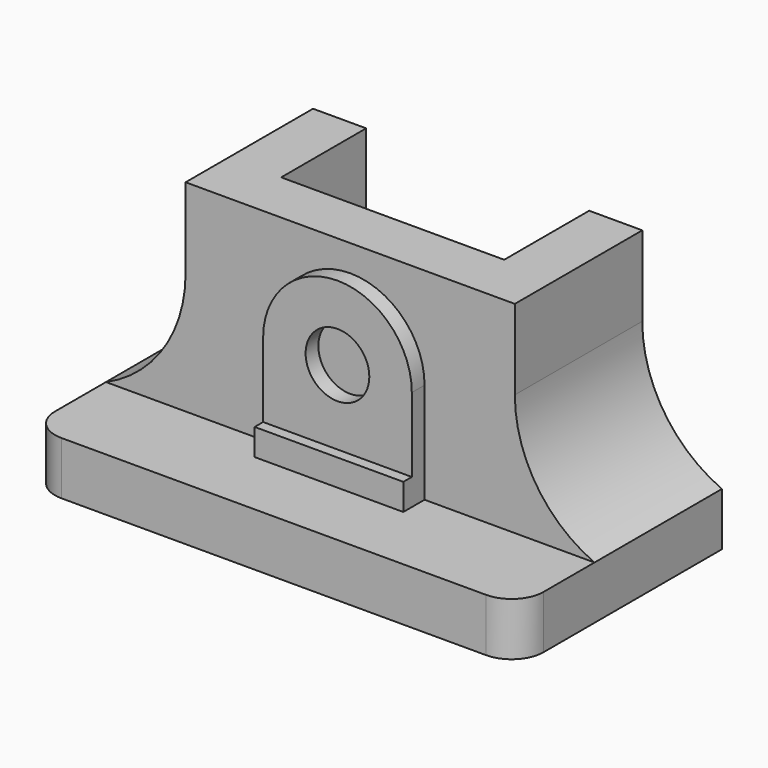
from build123d import *

# Parameters (mm, degrees)
F1_DEPTH = 48
F0_W     = 92
F0_H     = 18
F2_DEPTH = 10
F4_DEPTH = 42.2
F5_R     = 6
F6_DEPTH = 3
F5_W     = 28
F5_H     = 5
F7_DEPTH = 5
F8_R     = 6


with BuildPart() as f1:
    # F0 (on Top) → F1 (new body)
    with BuildSketch(Plane.XY):
        Polygon((-21, 30), (-46, 30), (-46, 0), (46, 0), (46, 30), (21, 30), (21, 10), (-21, 10), align=None)
    extrude(amount=F1_DEPTH)

    # F0 (on Top) → F2 (join)
    with BuildSketch(Plane.XY):
        with Locations((0, -9)):
            Rectangle(F0_W, F0_H)
    extrude(amount=F2_DEPTH)

    # F3 (on Front) → F4 (cut)
    with BuildSketch(Plane.XZ):
        with BuildLine():
            Line((-31, 32.9128784748), (-31, 56.0039258774))
            Line((-31, 56.0039258774), (-46.4185841416, 56.0039258774))
            ThreePointArc((-46.4185841416, 56.0039258774), (-35.208951488, 46.7956844509), (-31, 32.9128784748))
        make_face()
        with BuildLine():
            ThreePointArc((-46.4185841416, 56.0039258774), (-76.791048512, 19.0300724987), (-31, 32.9128784748))
            ThreePointArc((-31, 32.9128784748), (-35.208951488, 46.7956844509), (-46.4185841416, 56.0039258774))
        make_face()
        with BuildLine():
            ThreePointArc((81, 32.9128784748), (69.8828059761, 53.7039269868), (46.4185841416, 56.0039258774))
            ThreePointArc((46.4185841416, 56.0039258774), (35.208951488, 46.7956844509), (31, 32.9128784748))
            ThreePointArc((31, 32.9128784748), (56, 7.9128784748), (81, 32.9128784748))
        make_face()
        with BuildLine():
            ThreePointArc((31, 32.9128784748), (35.208951488, 46.7956844509), (46.4185841416, 56.0039258774))
            Line((46.4185841416, 56.0039258774), (31, 56.0039258774))
            Line((31, 56.0039258774), (31, 32.9128784748))
        make_face()
    extrude(amount=-F4_DEPTH, mode=Mode.SUBTRACT)

    # F5 (on face) → F6 (join)
    with BuildSketch(Plane.XZ):
        with BuildLine():
            Line((14, 15), (14, 29))
            ThreePointArc((14, 29), (0, 43), (-14, 29))
            Line((-14, 29), (-14, 15))
            Line((-14, 15), (14, 15))
        make_face()
        with Locations((0, 29)):
            Circle(F5_R, mode=Mode.SUBTRACT)
    extrude(amount=F6_DEPTH)

    # F5 (on face) → F7 (join)
    with BuildSketch(Plane.XZ):
        with Locations((0, 12.5)):
            Rectangle(F5_W, F5_H)
    extrude(amount=F7_DEPTH)

    # F8
    f8_edges = [f1.edges().sort_by_distance(p)[0] for p in [
        (-46, -18, 5),
        (46, -18, 5),
    ]]
    fillet(f8_edges, radius=F8_R)


solid = f1.part
